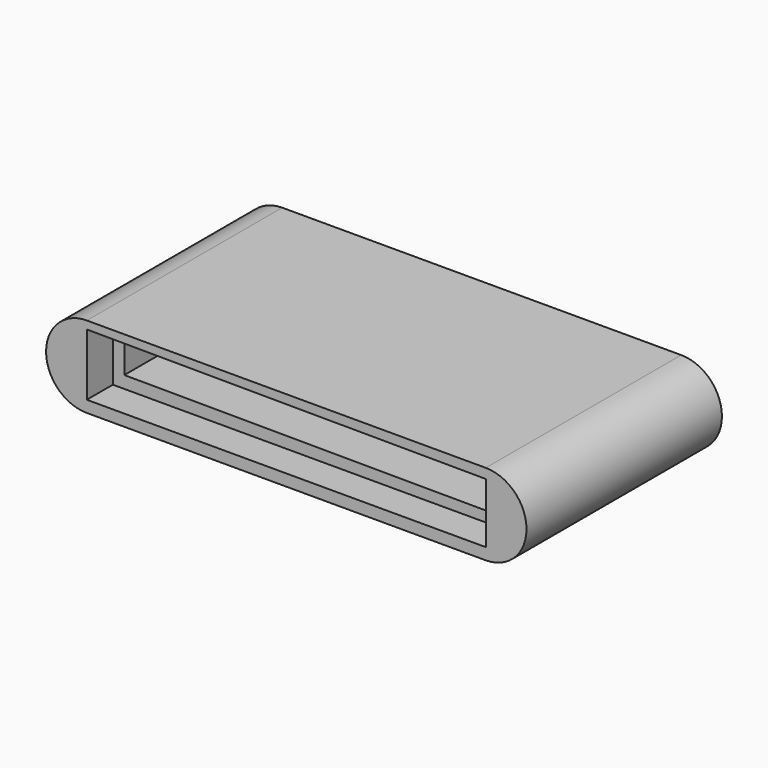
from build123d import *

# Parameters (mm, degrees)
F0_W      = 62.23
F0_H      = 12.7
F1_DEPTH  = 38.1
F3_DEPTH  = 5.08
F5_DEPTH  = 25.4
F6_R      = 9.525
F7_DEPTH  = 1.27
F8_R      = 6.985
F9_DEPTH  = 1.27
F10_R     = 3.81
F11_DEPTH = 1.27


with BuildPart() as f1:
    # F0 (on Front) → F1 (new body)
    with BuildSketch(Plane.XZ):
        with Locations((-31.115, 6.35)):
            Rectangle(F0_W, F0_H)
        with BuildLine():
            Line((0, 12.7), (0, 0))
            ThreePointArc((0, 0), (6.35, 6.35), (0, 12.7))
        make_face()
        with BuildLine():
            ThreePointArc((-62.23, 12.7), (-68.58, 6.35), (-62.23, 0))
            Line((-62.23, 0), (-62.23, 12.7))
        make_face()
    extrude(amount=F1_DEPTH)

    # F2 (on face) → F3 (cut)
    with BuildSketch(Plane.XZ.offset(38.1)):
        Polygon((-62.23, 1.814069), (0, 1.814069), (0, 11.170847), (-62.23, 11.466069), align=None)
    extrude(amount=-F3_DEPTH, mode=Mode.SUBTRACT)

    # F4 (on face) → F5 (cut)
    with BuildSketch(Plane.XZ.offset(33.02)):
        Polygon((-60.437147, 10.073616), (-60.437147, 3.723616), (-2.002486, 3.446399), (-2.002486, 9.796399), align=None)
    extrude(amount=-F5_DEPTH, mode=Mode.SUBTRACT)

    # F6 (on face) → F7 (cut)
    with BuildSketch(Plane(origin=(0, 0, 0), x_dir=(1, 0, 0), z_dir=(0, 0, -1))):
        with Locations((-50.196387, 16.022282)):
            Circle(F6_R)
        with Locations((-18.354639, 16.022282)):
            Circle(F6_R)
    extrude(amount=-F7_DEPTH, mode=Mode.SUBTRACT)

    # F8 (on face) → F9 (cut)
    with BuildSketch(Plane(origin=(0, 0, 1.27), x_dir=(1, 0, 0), z_dir=(0, 0, -1))):
        with Locations((-50.196387, 16.022282)):
            Circle(F8_R)
        with Locations((-18.557454, 16.427908)):
            Circle(F8_R)
    extrude(amount=-F9_DEPTH, mode=Mode.SUBTRACT)

    # F10 (on face) → F11 (cut)
    with BuildSketch(Plane(origin=(0, 0, 2.54), x_dir=(1, 0, 0), z_dir=(0, 0, -1))):
        with Locations((-50.196387, 16.022282)):
            Circle(F10_R)
        with Locations((-18.354639, 16.022282)):
            Circle(F10_R)
    extrude(amount=-F11_DEPTH, mode=Mode.SUBTRACT)


solid = f1.part
